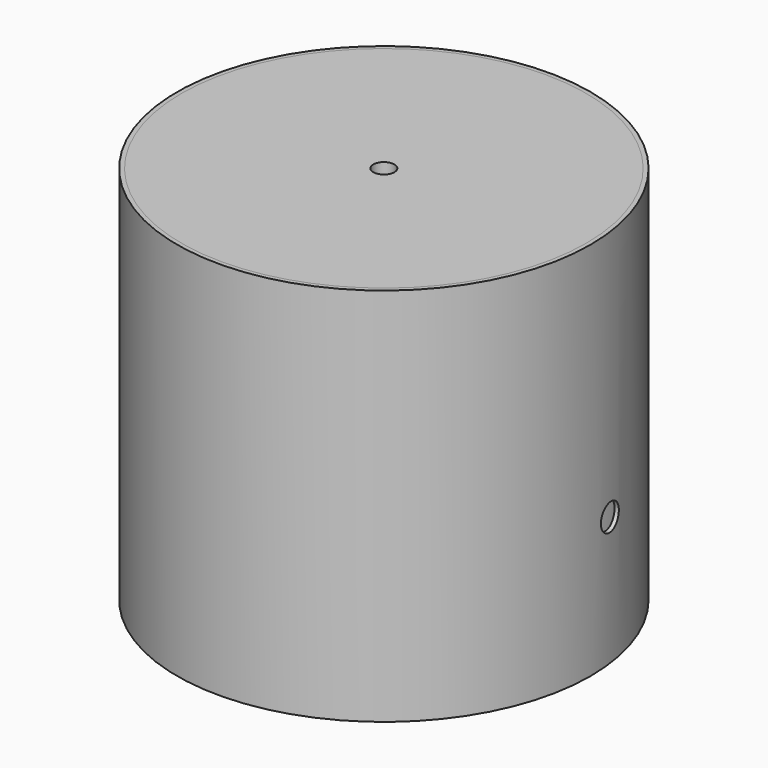
from build123d import *

# Parameters (mm, degrees)
F0_R     = 49
F0_R_2   = 48
F1_DEPTH = 90
F2_R     = 48
F2_R_2   = 2.5
F3_DEPTH = 6
F4_R     = 3.175
F5_DEPTH = 127


with BuildPart() as f1:
    # F0 (on Top) → F1 (new body)
    with BuildSketch(Plane.XY):
        Circle(F0_R)
        Circle(F0_R_2, mode=Mode.SUBTRACT)
    extrude(amount=F1_DEPTH)

    # F4 (on Right) → F5 (cut)
    with BuildSketch(Plane.YZ):
        with Locations((6.35, 30.48)):
            Circle(F4_R)
    extrude(amount=F5_DEPTH, mode=Mode.SUBTRACT)


with BuildPart() as f3:
    # F2 (on face) → F3 (new body)
    with BuildSketch(Plane.XY.offset(90)):
        Circle(F2_R)
        Circle(F2_R_2, mode=Mode.SUBTRACT)
    extrude(amount=-F3_DEPTH)


solid = Compound([f1.part, f3.part])
